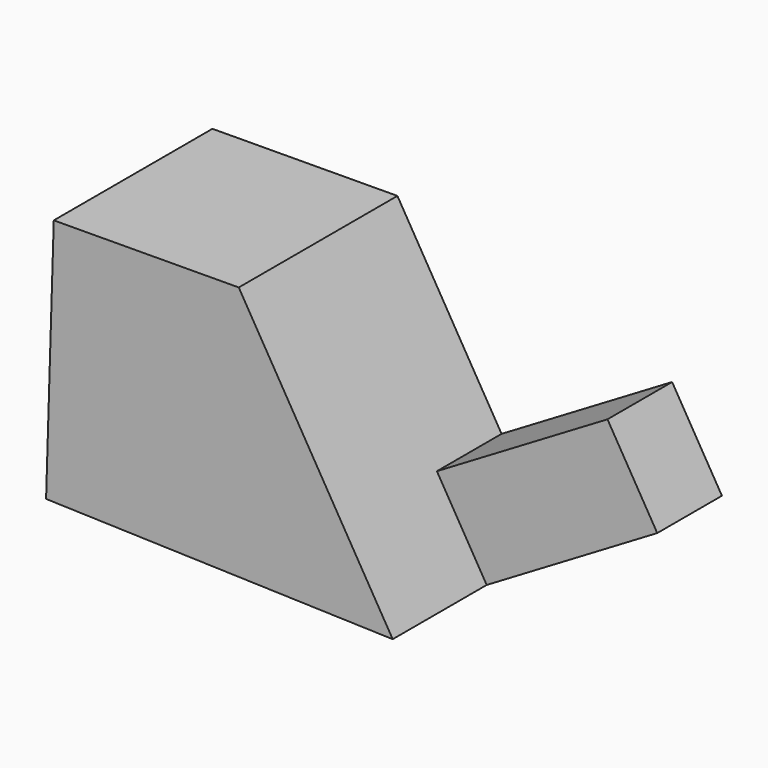
from build123d import *

# Parameters (mm, degrees)
F1_DEPTH = 25.4
F3_DEPTH = 25.4
F4_W     = 10.353053
F4_H     = 12.504167
F5_DEPTH = 25.4


with BuildPart() as f1:
    # F0 (on Front) → F1 (new body)
    with BuildSketch(Plane.XZ):
        Polygon((18.569692, 7.642571), (-25.87954, 7.38124), (-26.865089, -24.35346), (17.533206, -25.732289), align=None)
    extrude(amount=F1_DEPTH)

    # F2 (on face) → F3 (cut)
    with BuildSketch(Plane.XZ.offset(25.4)):
        Polygon((18.569692, 7.642571), (-2.184069, 7.520553), (17.533206, -25.732289), align=None)
    extrude(amount=-F3_DEPTH, mode=Mode.SUBTRACT)

    # F4 (on face) → F5 (join)
    with BuildSketch(Plane(origin=(1.683383, 0, 0.998162), x_dir=(0, 1, 0), z_dir=(0.860157, 0, 0.51003))):
        with Locations((-5.176526, -24.824175)):
            Rectangle(F4_W, F4_H)
    extrude(amount=F5_DEPTH)


solid = f1.part
